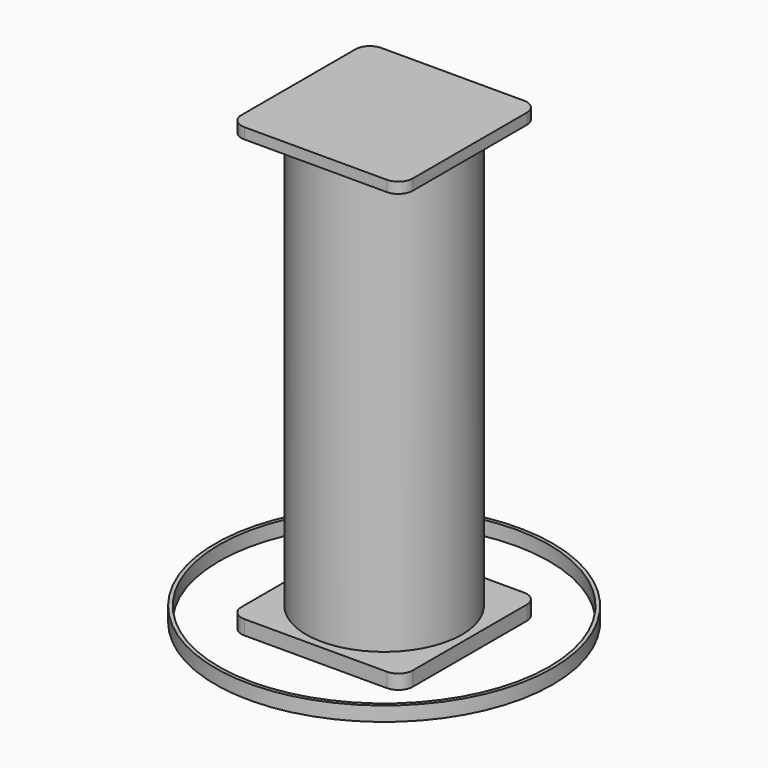
from build123d import *

# Parameters (mm, degrees)
F0_R     = 137.16
F1_DEPTH = 371.475
F2_W     = 301.625
F2_H     = 301.625
F3_DEPTH = 19.05
F4_W     = 301.625
F4_H     = 301.625
F5_DEPTH = 25.4
F6_R     = 25.4
F7_R     = 296.8625
F7_R_2   = 290.5125
F8_DEPTH = 25.4


with BuildPart() as f1:
    # F0 (on Top) → F1 (new body, symmetric)
    with BuildSketch(Plane.XY):
        Circle(F0_R)
    extrude(amount=F1_DEPTH, both=True)

    # F2 (on face) → F3 (join)
    with BuildSketch(Plane.XY.offset(371.475)):
        Rectangle(F2_W, F2_H)
    extrude(amount=F3_DEPTH)

    # F4 (on face) → F5 (join)
    with BuildSketch(Plane(origin=(0, 0, -371.475), x_dir=(1, 0, 0), z_dir=(0, 0, -1))):
        Rectangle(F4_W, F4_H)
    extrude(amount=F5_DEPTH)

    # F6
    f6_edges = [f1.edges().sort_by_distance(p)[0] for p in [
        (150.8125, -150.8125, -384.175),
        (-150.8125, -150.8125, -384.175),
        (150.8125, 150.8125, -384.175),
        (-150.8125, 150.8125, -384.175),
        (-150.8125, 150.8125, 381),
        (150.8125, 150.8125, 381),
        (-150.8125, -150.8125, 381),
        (150.8125, -150.8125, 381),
    ]]
    fillet(f6_edges, radius=F6_R)


with BuildPart() as f8:
    # F7 (on face) → F8 (new body)
    with BuildSketch(Plane(origin=(0, 0, -396.875), x_dir=(1, 0, 0), z_dir=(0, 0, -1))):
        Circle(F7_R)
        Circle(F7_R_2, mode=Mode.SUBTRACT)
    extrude(amount=-F8_DEPTH)


solid = Compound([f1.part, f8.part])
